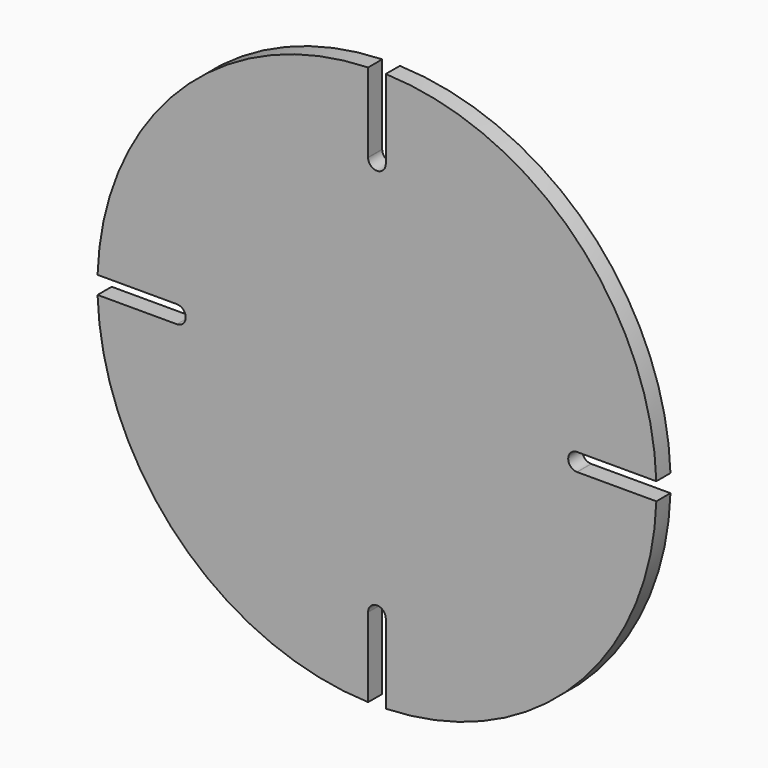
from build123d import *

# Parameters (mm, degrees)
F1_DEPTH = 12


with BuildPart() as f1:
    # F0 (on Front) → F1 (new body)
    with BuildSketch(Plane.XZ):
        with BuildLine():
            Line((-5.99854, 136.132353), (-5.99854, 189.905286))
            ThreePointArc((-5.99854, 189.905286), (-134.349772, 134.350805), (-189.90524, 6))
            Line((-189.90524, 6), (-136, 6))
            ThreePointArc((-136, 6), (-130, 0), (-136, -6))
            Line((-136, -6), (-189.90524, -6))
            ThreePointArc((-189.90524, -6), (-134.349772, -134.350805), (-5.99854, -189.905286))
            Line((-5.99854, -189.905286), (-5.99854, -136.132353))
            ThreePointArc((-5.99854, -136.132353), (-6, -136), (-5.99854, -135.867647))
            ThreePointArc((-5.99854, -135.867647), (0, -130), (5.99854, -135.867647))
            ThreePointArc((5.99854, -135.867647), (6, -136), (5.99854, -136.132353))
            Line((5.99854, -136.132353), (5.99854, -189.905286))
            ThreePointArc((5.99854, -189.905286), (134.350288, -134.350288), (189.905286, -5.99854))
            Line((189.905286, -5.99854), (136.132353, -5.99854))
            ThreePointArc((136.132353, -5.99854), (136, -6), (135.867647, -5.99854))
            ThreePointArc((135.867647, -5.99854), (130, 0), (135.867647, 5.99854))
            Line((135.867647, 5.99854), (189.905286, 5.99854))
            ThreePointArc((189.905286, 5.99854), (134.350288, 134.350288), (5.99854, 189.905286))
            Line((5.99854, 189.905286), (5.99854, 136.132353))
            ThreePointArc((5.99854, 136.132353), (6, 136), (5.99854, 135.867647))
            ThreePointArc((5.99854, 135.867647), (0, 130), (-5.99854, 135.867647))
            ThreePointArc((-5.99854, 135.867647), (-6, 136), (-5.99854, 136.132353))
        make_face()
    extrude(amount=F1_DEPTH)


solid = f1.part
